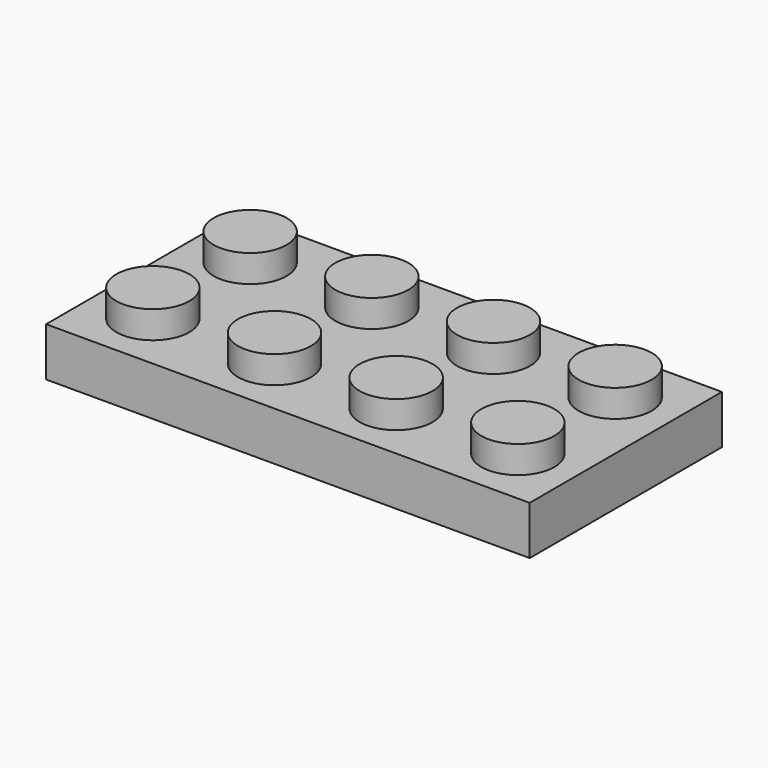
from build123d import *

# Parameters (mm, degrees)
SKETCH004_W   = 31.8
SKETCH004_H   = 15.8
PAD_DEPTH     = 3.2
SKETCH005_R   = 2.4
PAD001_DEPTH  = 1.8
POCKET_DEPTH  = 2
SKETCH007_R   = 3.25
SKETCH007_R_2 = 2.4
PAD002_DEPTH  = 2


with BuildPart() as part:
    # Sketch004 → Pad (new body)
    with BuildSketch(Plane.XY):
        Rectangle(SKETCH004_W, SKETCH004_H)
    extrude(amount=PAD_DEPTH)

    # Sketch005 (on Face6 of Pad) → Pad001 (join)
    with BuildSketch(Plane.XY.offset(3.2)):
        with Locations((-12, 4)):
            Circle(SKETCH005_R)
        with Locations((-4, 4)):
            Circle(SKETCH005_R)
        with Locations((12, 4)):
            Circle(SKETCH005_R)
        with Locations((4, 4)):
            Circle(SKETCH005_R)
        with Locations((-12, -4)):
            Circle(SKETCH005_R)
        with Locations((-4, -4)):
            Circle(SKETCH005_R)
        with Locations((12, -4)):
            Circle(SKETCH005_R)
        with Locations((4, -4)):
            Circle(SKETCH005_R)
    extrude(amount=PAD001_DEPTH)

    # Sketch006 (on Face4 of Pad001) → Pocket (cut)
    with BuildSketch(Plane(origin=(0, 0, 0), x_dir=(1, 0, 0), z_dir=(0, 0, -1))):
        Polygon((-14.7, 6.7), (-14.7, 4.3), (-14.4, 4.3), (-14.4, 3.7), (-14.7, 3.7), (-14.7, 0), (-14.7, -3.7), (-14.4, -3.7), (-14.4, -4.3), (-14.7, -4.3), (-14.7, -6.7), (-12.3, -6.7), (-12.3, -6.4), (-11.7, -6.4), (-11.7, -6.7), (-4.3, -6.7), (-4.3, -6.4), (-3.7, -6.4), (-3.7, -6.7), (0, -6.7), (3.7, -6.7), (3.7, -6.4), (4.3, -6.4), (4.3, -6.7), (11.7, -6.7), (11.7, -6.4), (12.3, -6.4), (12.3, -6.7), (14.7, -6.7), (14.7, -4.3), (14.4, -4.3), (14.4, -3.7), (14.7, -3.7), (14.7, 0), (14.7, 3.7), (14.4, 3.7), (14.4, 4.3), (14.7, 4.3), (14.7, 6.7), (12.3, 6.7), (12.3, 6.4), (11.7, 6.4), (11.7, 6.7), (4.3, 6.7), (4.3, 6.4), (3.7, 6.4), (3.7, 6.7), (0, 6.7), (-3.7, 6.7), (-3.7, 6.4), (-4.3, 6.4), (-4.3, 6.7), (-11.7, 6.7), (-11.7, 6.4), (-12.3, 6.4), (-12.3, 6.7), align=None)
    extrude(amount=-POCKET_DEPTH, mode=Mode.SUBTRACT)

    # Sketch007 (on Face71 of Pocket) → Pad002 (join)
    with BuildSketch(Plane(origin=(0, 0, 2), x_dir=(1, 0, 0), z_dir=(0, 0, -1))):
        Circle(SKETCH007_R)
        Circle(SKETCH007_R_2, mode=Mode.SUBTRACT)
        with Locations((-8, 0)):
            Circle(SKETCH007_R)
        with Locations((-8, 0)):
            Circle(SKETCH007_R_2, mode=Mode.SUBTRACT)
        with Locations((8, 0)):
            Circle(SKETCH007_R)
        with Locations((8, 0)):
            Circle(SKETCH007_R_2, mode=Mode.SUBTRACT)
    extrude(amount=PAD002_DEPTH)


solid = part.part
